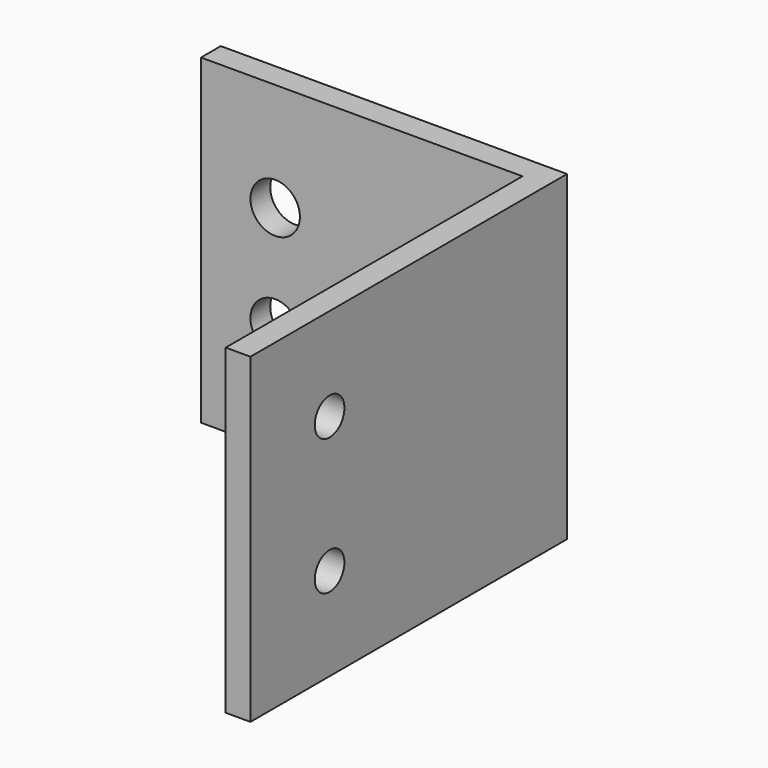
from build123d import *

# Parameters (mm, degrees)
F1_DEPTH = 41.275
F2_R     = 4.7625
F3_DEPTH = 88.901
F4_R     = 6.35
F4_R_2   = 4.7625
F5_DEPTH = 101.601


with BuildPart() as f1:
    # F0 (on Top) → F1 (new body, symmetric)
    with BuildSketch(Plane.XY):
        Polygon((-82.55, 0), (0, 0), (0, -95.25), (6.35, -95.25), (6.35, 6.35), (-82.55, 6.35), align=None)
    extrude(amount=F1_DEPTH, both=True)

    # F2 (on face) → F3 (cut, through all)
    with BuildSketch(Plane.YZ.offset(6.35)):
        with Locations((-69.85, 17.4625)):
            Circle(F2_R)
        with Locations((-69.85, -17.4625)):
            Circle(F2_R)
    extrude(amount=-F3_DEPTH, mode=Mode.SUBTRACT)

    # F4 (on face) → F5 (cut, through all)
    with BuildSketch(Plane(origin=(0, 6.35, 0), x_dir=(-1, 0, 0), z_dir=(0, 1, 0))):
        with Locations((63.5, 13.4874)):
            Circle(F4_R)
        with Locations((63.5, -13.4874)):
            Circle(F4_R)
        with Locations((19.05, 0)):
            Circle(F4_R_2)
    extrude(amount=-F5_DEPTH, mode=Mode.SUBTRACT)


solid = f1.part
